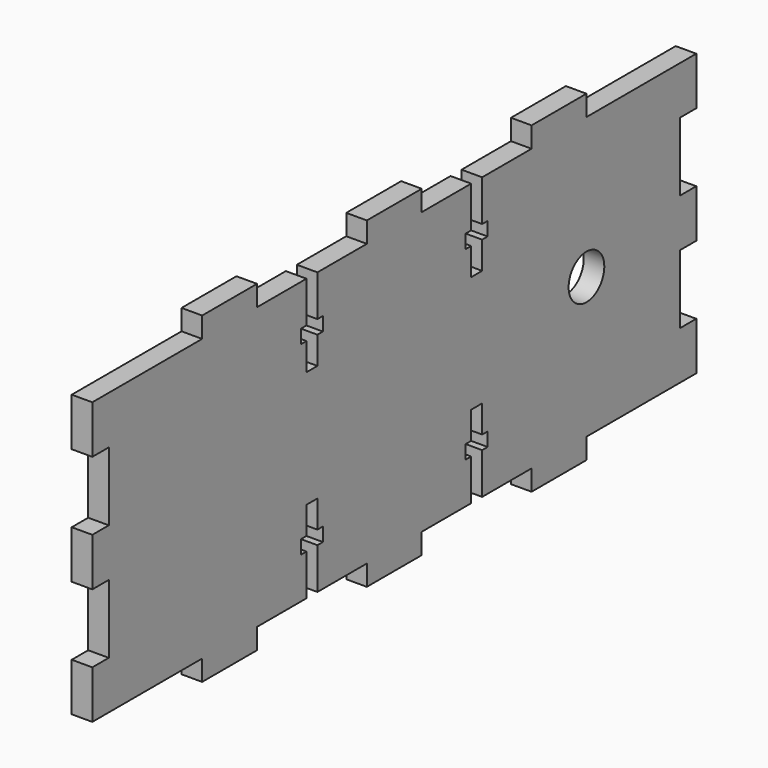
from build123d import *

# Parameters (mm, degrees)
F0_R     = 3.25
F1_DEPTH = 3


with BuildPart() as f1:
    # F0 (on Right) → F1 (new body)
    with BuildSketch(Plane.YZ):
        Polygon((-3, 3), (0, 3), (17, 3), (17, 10), (14, 10), (14, 20), (17, 20), (17, 27), (14, 27), (14, 37), (17, 37), (17, 44), (-3, 44), (-3, 47), (-13, 47), (-13, 44), (-22, 44), (-22, 38), (-21, 38), (-21, 36), (-22, 36), (-22, 32), (-24, 32), (-24, 36), (-25, 36), (-25, 38), (-24, 38), (-24, 44), (-33, 44), (-33, 47), (-43, 47), (-43, 44), (-52, 44), (-52, 38), (-51, 38), (-51, 36), (-52, 36), (-52, 32), (-54, 32), (-54, 36), (-55, 36), (-55, 38), (-54, 38), (-54, 44), (-63, 44), (-63, 47), (-73, 47), (-73, 44), (-93, 44), (-93, 37), (-90, 37), (-90, 27), (-93, 27), (-93, 20), (-90, 20), (-90, 10), (-93, 10), (-93, 3), (-73, 3), (-73, 0), (-63, 0), (-63, 3), (-54, 3), (-54, 9), (-55, 9), (-55, 11), (-54, 11), (-54, 15), (-52, 15), (-52, 11), (-51, 11), (-51, 9), (-52, 9), (-52, 3), (-43, 3), (-43, 0), (-33, 0), (-33, 3), (-24, 3), (-24, 9), (-25, 9), (-25, 11), (-24, 11), (-24, 15), (-22, 15), (-22, 11), (-21, 11), (-21, 9), (-22, 9), (-22, 3), (-13, 3), (-13, 0), (-3, 0), align=None)
        with Locations((-3, 23.5)):
            Circle(F0_R, mode=Mode.SUBTRACT)
    extrude(amount=F1_DEPTH)


solid = f1.part
